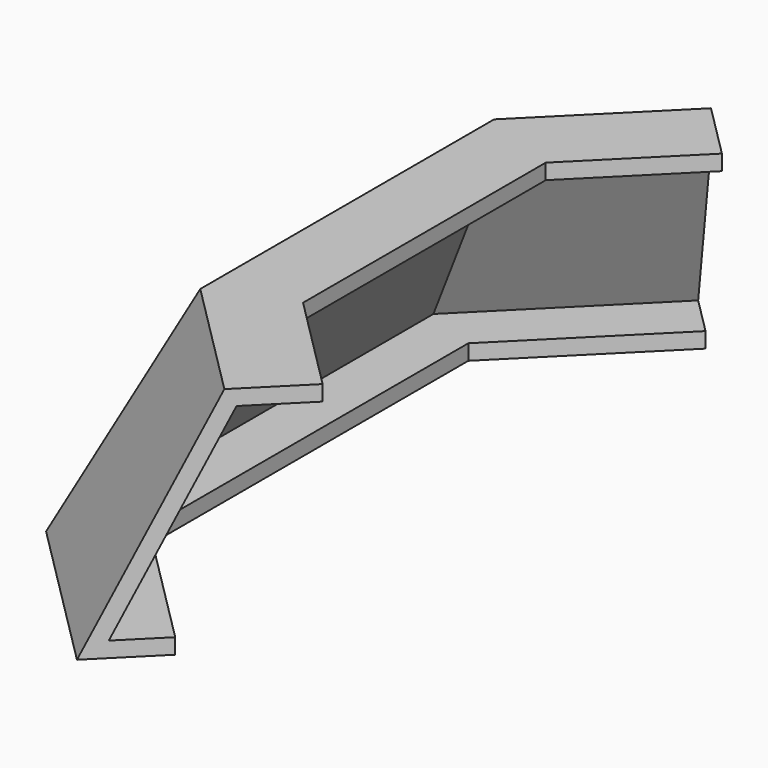
from build123d import *


with BuildPart() as f2:
    # F2: sweep along a path in F0
    with BuildLine(Plane.XY) as f2_path:
        Line((0, 50), (-20, 30))
        Line((-20, 30), (-20, -30))
        Line((-20, -30), (0, -50))
    # F1 (on Front) → F2 (sweep)
    with BuildSketch(Plane.XZ):
        Polygon((-20, 0), (-10, 0), (-10, 2), (-16.7639320225, 2), (-3.7639320225, 28), (5, 28), (5, 30), (-5, 30), align=None)
    sweep(path=f2_path.line, transition=Transition.RIGHT)


solid = f2.part
